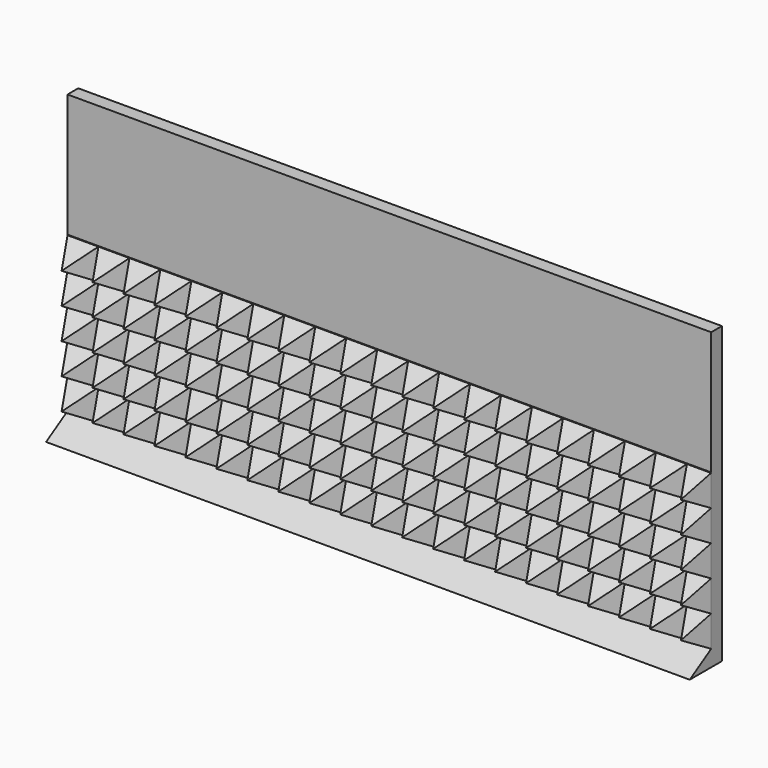
from build123d import *

# Parameters (mm, degrees)
F0_W          = 609.6
F0_H          = 279.4
F1_DEPTH      = 25.4
F3_DEPTH      = 279.401
F5_W          = 609.6
F5_H          = 279.4
F6_DEPTH      = 12.7
F7_DEPTH      = 304.801
F7_DEPTH_BACK = 304.801
F9_DEPTH      = 304.8
F9_DEPTH_BACK = 304.8
F11_DEPTH     = 116.84


with BuildPart() as f1:
    # F0 (on Front) → F1 (new body)
    with BuildSketch(Plane.XZ):
        Rectangle(F0_W, F0_H)
    extrude(amount=F1_DEPTH)

    # F2 (on face) → F3 (cut, through all)
    with BuildSketch(Plane.XY.offset(139.7)):
        Polygon((-290.1353031626, -25.4), (-304.8, 0), (-304.8, -47.174654901), (304.8, -47.174654901), (304.8, 0), (296.4525703341, -25.4), (281.7878734967, 0), (267.1231766592, -25.4), (252.4584798218, 0), (237.7937829844, -25.4), (223.129086147, 0), (208.4643893096, -25.4), (193.7996924722, 0), (179.1349956347, -25.4), (164.4702987973, 0), (149.8056019599, -25.4), (135.1409051225, 0), (120.4762082851, -25.4), (105.8115114477, 0), (91.1468146102, -25.4), (76.4821177728, 0), (61.8174209354, -25.4), (47.152724098, 0), (32.4880272606, -25.4), (17.8233304232, 0), (3.1586335857, -25.4), (-11.5060632517, 0), (-26.1707600891, -25.4), (-40.8354569265, 0), (-55.5001537639, -25.4), (-70.1648506013, 0), (-84.8295474388, -25.4), (-99.4942442762, 0), (-114.1589411136, -25.4), (-128.823637951, 0), (-143.4883347884, -25.4), (-158.1530316258, 0), (-172.8177284633, -25.4), (-187.4824253007, 0), (-202.1471221381, -25.4), (-216.8118189755, 0), (-231.4765158129, -25.4), (-246.1412126503, 0), (-260.8059094878, -25.4), (-275.4706063252, 0), align=None)
    extrude(amount=-F3_DEPTH, mode=Mode.SUBTRACT)

    # F5 (on Front) → F6 (join)
    with BuildSketch(Plane.XZ):
        Rectangle(F5_W, F5_H)
    extrude(amount=-F6_DEPTH)

    # F4 (on Right) → F7 (cut, two sides)
    with BuildSketch(Plane.YZ) as f7_sk:
        Polygon((-25.4, 125.0353031626), (0, 139.7), (-54.9247488379, 139.7), (-54.9247488379, -139.7), (-25.4, -139.7), (0, -124.2645430735), (-25.4, -109.5998462361), (0, -94.9351493987), (-25.4, -80.2704525612), (0, -65.6057557238), (-25.4, -50.9410588864), (0, -36.276362049), (-25.4, -21.6116652116), (0, -6.9469683742), (-25.4, 7.7177284633), (0, 22.3824253007), (-25.4, 37.0471221381), (0, 51.7118189755), (-25.4, 66.3765158129), (0, 81.0412126503), (-25.4, 95.7059094878), (0, 110.3706063252), align=None)
    extrude(amount=-F7_DEPTH, mode=Mode.SUBTRACT)
    extrude(f7_sk.sketch, amount=F7_DEPTH_BACK, mode=Mode.SUBTRACT)

    # F8 (on Right) → F9 (join, two sides)
    with BuildSketch(Plane.YZ) as f9_sk:
        Polygon((12.7104194835, -124.2645430735), (0, -124.2645430735), (-25.4, -139.7), (0, -139.7), (12.7104194835, -139.7), align=None)
    extrude(amount=F9_DEPTH)
    extrude(f9_sk.sketch, amount=-F9_DEPTH_BACK)

    # F10 (on face) → F11 (cut)
    with BuildSketch(Plane.XY.offset(139.7)):
        Polygon((-275.4706063252, 0), (-304.8, 0), (-305.6610822678, 0), (-305.6610822678, -53.3763095737), (311.325520277, -53.3763095737), (311.325520277, 0), (304.8, 0), (281.7878734967, 0), (252.4584798218, 0), (223.129086147, 0), (193.7996924722, 0), (164.4702987973, 0), (135.1409051225, 0), (105.8115114477, 0), (101.6, 0), (76.4821177728, 0), (47.152724098, 0), (17.8233304232, 0), (-11.5060632517, 0), (-40.8354569265, 0), (-70.1648506013, 0), (-99.4942442762, 0), (-128.823637951, 0), (-158.1530316258, 0), (-187.4824253007, 0), (-216.8118189755, 0), (-246.1412126503, 0), align=None)
    extrude(amount=-F11_DEPTH, mode=Mode.SUBTRACT)


solid = f1.part
